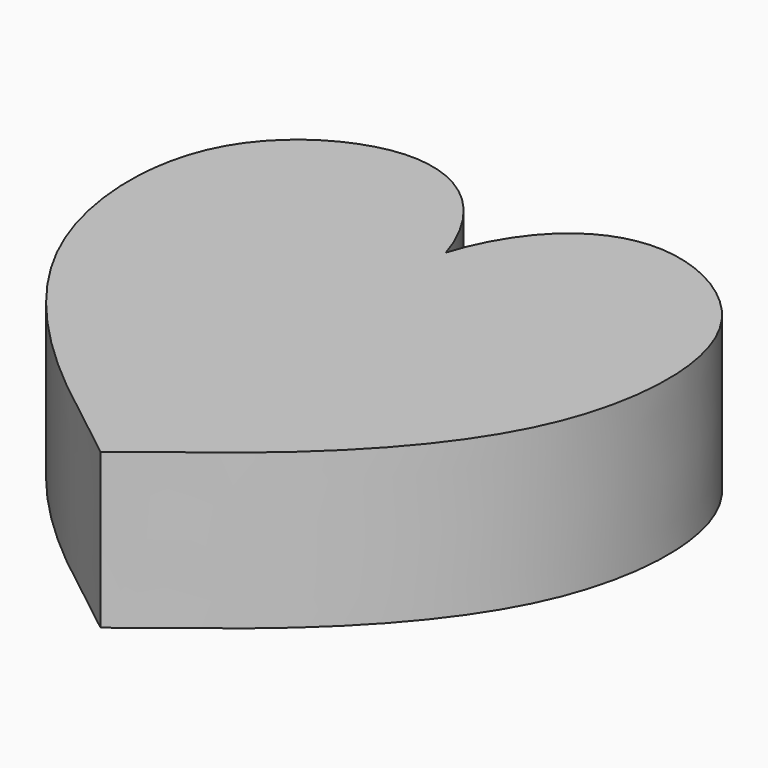
from build123d import *

# Parameters (mm, degrees)
F1_DEPTH = 40


with BuildPart() as f1:
    # F0 (on Top) → F1 (new body)
    with BuildSketch(Plane.XY):
        with BuildLine():
            add(Edge.make_bspline(
                [(2.6276221033, 8.5307536647), (4.5528227925, 14.9323386964), (12.5892390644, 30.9422068211), (37.5245030602, 41.748522773), (75.6215667976, 19.6444276913), (72.4741076627, -40.868834064), (28.8766694944, -83.8268887696), (15.3671781021, -92.7045045983), (2.6276221033, -102.9997383739)],
                knots=[0, 0, 0, 0, 0.131813136, 0.2661763282, 0.4305411385, 0.6322498153, 0.8376192768, 1, 1, 1, 1], degree=3))
            add(Edge.make_bspline(
                [(2.6276221033, 8.5307536647), (0.7024214142, 14.9323386964), (-7.3339948578, 30.9422068211), (-32.2692588536, 41.748522773), (-70.366322591, 19.6444276913), (-67.2188634561, -40.868834064), (-23.6214252877, -83.8268887696), (-10.1119338955, -92.7045045983), (2.6276221033, -102.9997383739)],
                knots=[0, 0, 0, 0, 0.131813136, 0.2661763282, 0.4305411385, 0.6322498153, 0.8376192768, 1, 1, 1, 1], degree=3))
        make_face()
    extrude(amount=F1_DEPTH)


solid = f1.part
